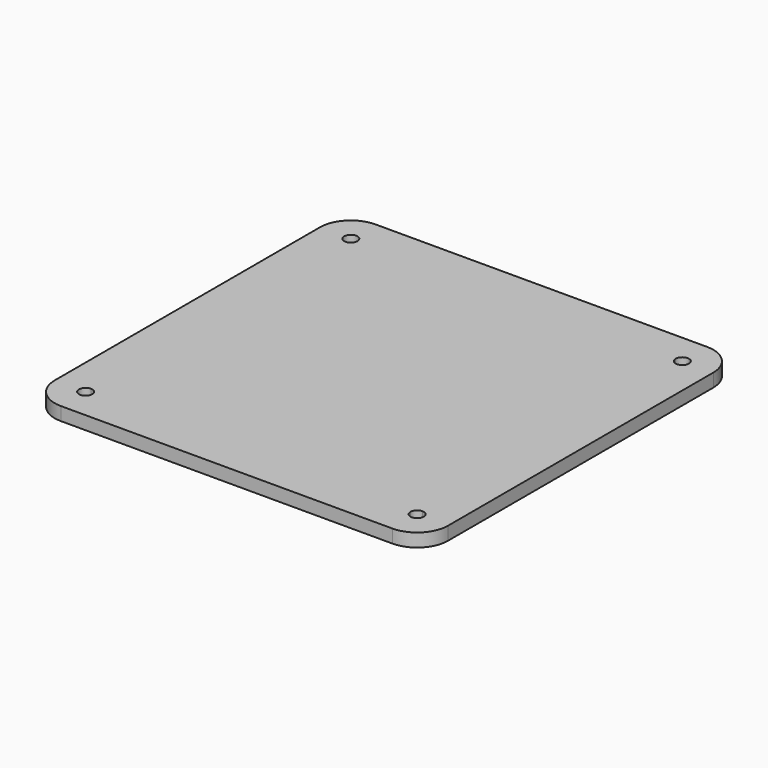
from build123d import *

# Parameters (mm, degrees)
F1_DEPTH = 3


with BuildPart() as f1:
    # F0 (on Top) → F1 (new body)
    with BuildSketch(Plane.XY):
        with BuildLine():
            ThreePointArc((-37.5, 44.5), (-32.5502525317, 42.4497474683), (-30.5, 37.5))
            Line((-30.5, 37.5), (30.5, 37.5))
            ThreePointArc((30.5, 37.5), (32.5502525317, 42.4497474683), (37.5, 44.5))
            Line((37.5, 44.5), (-37.5, 44.5))
        make_face()
        with BuildLine():
            Line((30.5, -37.5), (-30.5, -37.5))
            ThreePointArc((-30.5, -37.5), (-32.550252511, -42.4497474476), (-37.4999999416, -44.5))
            Line((-37.4999999416, -44.5), (37.5, -44.5))
            ThreePointArc((37.5, -44.5), (32.5502525317, -42.4497474683), (30.5, -37.5))
        make_face()
        with BuildLine():
            ThreePointArc((44.5, 37.5), (42.4497474683, 32.5502525317), (37.5, 30.5))
            Line((37.5, 30.5), (37.5, -30.5))
            ThreePointArc((37.5, -30.5), (42.4497474683, -32.5502525317), (44.5, -37.5))
            Line((44.5, -37.5), (44.5, 37.5))
        make_face()
        with BuildLine():
            Line((-37.5, -30.5), (-37.5, 30.5))
            ThreePointArc((-37.5, 30.5), (-42.4497474683, 32.5502525317), (-44.5, 37.5))
            Line((-44.5, 37.5), (-44.5, -37.4999999639))
            ThreePointArc((-44.5, -37.4999999639), (-42.4497474555, -32.5502525189), (-37.5, -30.5))
        make_face()
        with BuildLine():
            ThreePointArc((37.5, 44.5), (32.5502525317, 42.4497474683), (30.5, 37.5))
            Line((30.5, 37.5), (36, 37.5))
            ThreePointArc((36, 37.5), (37.5, 39), (39, 37.5))
            ThreePointArc((39, 37.5), (38.5606601718, 36.4393398282), (37.5, 36))
            Line((37.5, 36), (37.5, 30.5))
            ThreePointArc((37.5, 30.5), (42.4497474683, 32.5502525317), (44.5, 37.5))
            ThreePointArc((44.5, 37.5), (42.4497474683, 42.4497474683), (37.5, 44.5))
        make_face()
        with BuildLine():
            Line((-36, 37.5), (-30.5, 37.5))
            ThreePointArc((-30.5, 37.5), (-32.5502525317, 42.4497474683), (-37.5, 44.5))
            ThreePointArc((-37.5, 44.5), (-42.4497474683, 42.4497474683), (-44.5, 37.5))
            ThreePointArc((-44.5, 37.5), (-42.4497474683, 32.5502525317), (-37.5, 30.5))
            Line((-37.5, 30.5), (-37.5, 36))
            ThreePointArc((-37.5, 36), (-38.5606601718, 38.5606601718), (-36, 37.5))
        make_face()
        with BuildLine():
            ThreePointArc((44.5, -37.5), (42.4497474683, -32.5502525317), (37.5, -30.5))
            Line((37.5, -30.5), (37.5, -36))
            ThreePointArc((37.5, -36), (38.5606601718, -36.4393398282), (39, -37.5))
            ThreePointArc((39, -37.5), (37.5, -39), (36, -37.5))
            Line((36, -37.5), (30.5, -37.5))
            ThreePointArc((30.5, -37.5), (32.5502525317, -42.4497474683), (37.5, -44.5))
            ThreePointArc((37.5, -44.5), (42.4497474683, -42.4497474683), (44.5, -37.5))
        make_face()
        with BuildLine():
            Line((-37.5, -36), (-37.5, -30.5))
            ThreePointArc((-37.5, -30.5), (-42.4497474555, -32.5502525189), (-44.5, -37.4999999639))
            ThreePointArc((-44.5, -37.4999999639), (-42.4497474604, -42.4497474762), (-37.4999999416, -44.5))
            ThreePointArc((-37.4999999416, -44.5), (-32.550252511, -42.4497474476), (-30.5, -37.5))
            Line((-30.5, -37.5), (-36, -37.5))
            ThreePointArc((-36, -37.5), (-38.5606601718, -38.5606601718), (-37.5, -36))
        make_face()
        with BuildLine():
            Line((30.5, 37.5), (-30.5, 37.5))
            ThreePointArc((-30.5, 37.5), (-32.5502525317, 32.5502525317), (-37.5, 30.5))
            Line((-37.5, 30.5), (-37.5, -30.5))
            ThreePointArc((-37.5, -30.5), (-32.5502525317, -32.5502525317), (-30.5, -37.5))
            Line((-30.5, -37.5), (30.5, -37.5))
            ThreePointArc((30.5, -37.5), (32.5502525317, -32.5502525317), (37.5, -30.5))
            Line((37.5, -30.5), (37.5, 30.5))
            ThreePointArc((37.5, 30.5), (32.5502525317, 32.5502525317), (30.5, 37.5))
        make_face()
        with BuildLine():
            ThreePointArc((-37.5, 30.5), (-32.5502525317, 32.5502525317), (-30.5, 37.5))
            Line((-30.5, 37.5), (-36, 37.5))
            ThreePointArc((-36, 37.5), (-36.4393398282, 36.4393398282), (-37.5, 36))
            Line((-37.5, 36), (-37.5, 30.5))
        make_face()
        with BuildLine():
            Line((36, 37.5), (30.5, 37.5))
            ThreePointArc((30.5, 37.5), (32.5502525317, 32.5502525317), (37.5, 30.5))
            Line((37.5, 30.5), (37.5, 36))
            ThreePointArc((37.5, 36), (36.4393398282, 36.4393398282), (36, 37.5))
        make_face()
        with BuildLine():
            Line((37.5, -36), (37.5, -30.5))
            ThreePointArc((37.5, -30.5), (32.5502525317, -32.5502525317), (30.5, -37.5))
            Line((30.5, -37.5), (36, -37.5))
            ThreePointArc((36, -37.5), (36.4393398282, -36.4393398282), (37.5, -36))
        make_face()
        with BuildLine():
            ThreePointArc((-30.5, -37.5), (-32.5502525317, -32.5502525317), (-37.5, -30.5))
            Line((-37.5, -30.5), (-37.5, -36))
            ThreePointArc((-37.5, -36), (-36.4393398282, -36.4393398282), (-36, -37.5))
            Line((-36, -37.5), (-30.5, -37.5))
        make_face()
    extrude(amount=F1_DEPTH)


solid = f1.part
